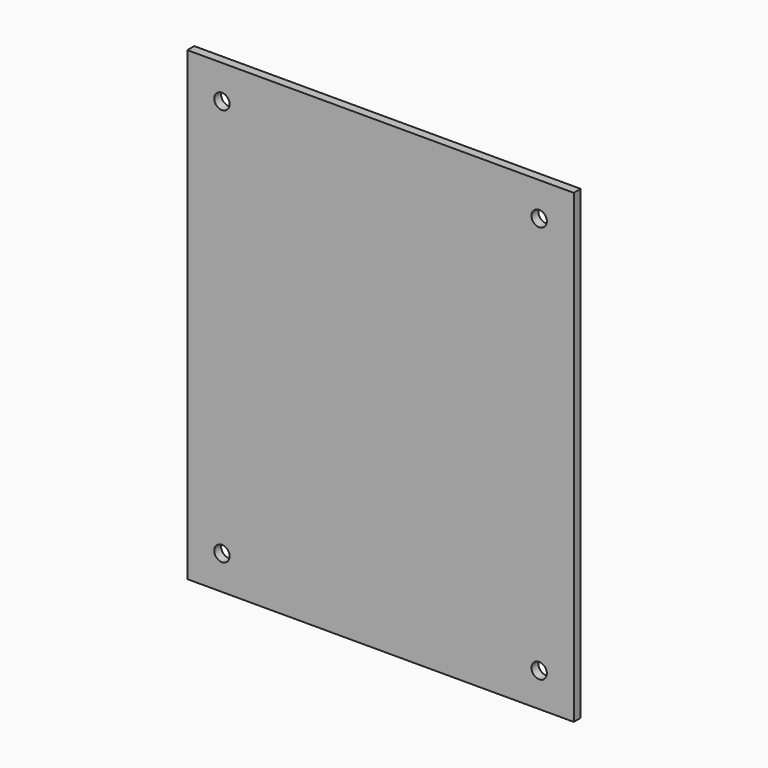
from build123d import *

# Parameters (mm, degrees)
F0_W     = 68.072
F0_H     = 82.042
F1_DEPTH = 1.524
F3_D     = 2.7051


with BuildPart() as f1:
    # F0 (on Front) → F1 (new body)
    with BuildSketch(Plane.XZ):
        with Locations((34.036, -41.021)):
            Rectangle(F0_W, F0_H)
    extrude(amount=F1_DEPTH)

    # F3 (through all)
    with Locations(Plane.XZ.offset(1.524)):
        with Locations((6.096, -5.969), (61.976, -5.969), (61.976, -76.073), (6.096, -76.073)):
            Hole(F3_D / 2)


solid = f1.part
